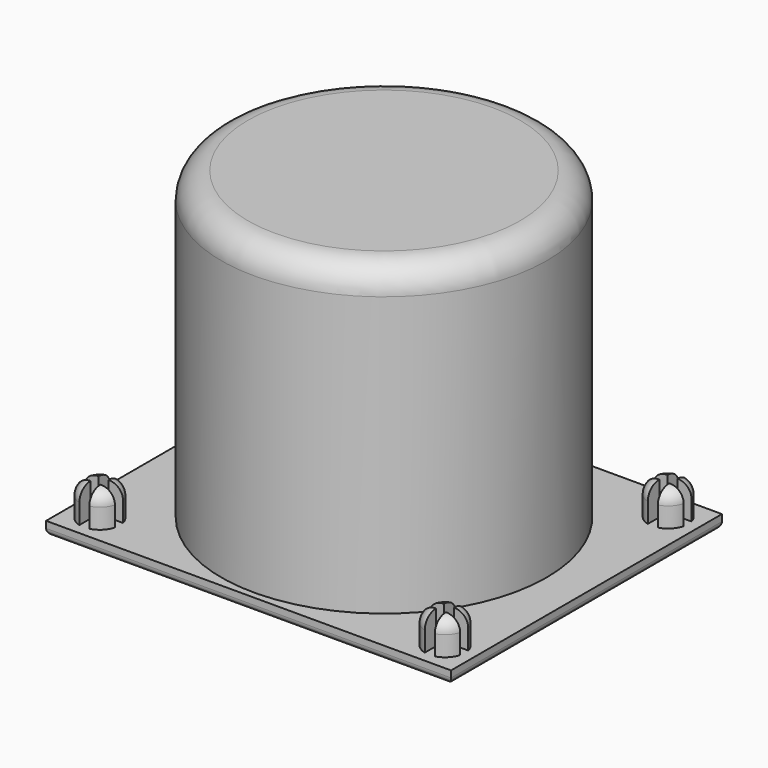
from build123d import *

# Parameters (mm, degrees)
SKETCH001_W                = 61
SKETCH001_H                = 51
PAD_DEPTH                  = 2
SKETCH002_R                = 3
PAD001_DEPTH               = 5
SKETCH002_MIRRORED_2_R     = 3
PAD001_MIRRORED_2_DEPTH    = 5
FILLET_R                   = 2
FILLET001_R                = 1
POCKET_DEPTH               = 5
POCKET_MIRRORED002_2_DEPTH = 5
SKETCH092_R                = 24.5
PAD041_DEPTH               = 48
SKETCH093_R                = 23
POCKET028_DEPTH            = 46
FILLET041_R                = 4


with BuildPart() as part:
    # Sketch001 → Pad (new body)
    with BuildSketch(Plane.XY):
        Rectangle(SKETCH001_W, SKETCH001_H)
    extrude(amount=PAD_DEPTH)

    # Sketch002 (on DatumPlane) → Pad001 (join)
    with BuildSketch(Plane.XY.offset(2)):
        with Locations((-26, 21)):
            Circle(SKETCH002_R)
    pad001 = extrude(amount=PAD001_DEPTH)

    # Sketch002 Mirrored 2 → Pad001 Mirrored 2 (add)
    with BuildSketch(Plane(origin=(0, 0, 2), x_dir=(-1, 0, 0), z_dir=(0, 0, -1))):
        with Locations((-26, 21)):
            Circle(SKETCH002_MIRRORED_2_R)
    pad001_mirrored_2 = extrude(amount=-PAD001_MIRRORED_2_DEPTH)

    # Mirrored001: Pad001, Pad001 Mirrored 2 across Sketch002 H_Axis
    add(pad001.mirror(Plane(origin=(0, 0, 2), x_dir=(0, 0, 1), z_dir=(0, 1, 0))))
    add(pad001_mirrored_2.mirror(Plane(origin=(0, 0, 2), x_dir=(0, 0, 1), z_dir=(0, 1, 0))))

    # Fillet
    fillet_edges = [part.edges().sort_by_distance(p)[0] for p in [
        (29, 21, 7),
        (29, -21, 7),
        (-29, -21, 7),
        (-29, 21, 7),
    ]]
    fillet(fillet_edges, radius=FILLET_R)

    # Fillet001
    fillet001_edges = [part.edges().sort_by_distance(p)[0] for p in [
        (0, 25.5, 0),
        (30.5, 0, 0),
        (0, -25.5, 0),
        (-30.5, 0, 0),
    ]]
    fillet(fillet001_edges, radius=FILLET001_R)

    # Sketch003 (on DatumPlane) → Pocket (cut)
    with BuildSketch(Plane.XY.offset(7)):
        Polygon((-29.265642, -20.28286), (-26.765642, -20.28286), (-26.765642, -17.78286), (-25.265642, -17.78286), (-25.265642, -20.28286), (-22.765642, -20.28286), (-22.765642, -21.78286), (-25.265642, -21.78286), (-25.265642, -24.28286), (-26.765642, -24.28286), (-26.765642, -21.78286), (-29.265642, -21.78286), align=None)
    pocket = extrude(amount=-POCKET_DEPTH, mode=Mode.SUBTRACT)

    # Sketch003 Mirrored002 2 → Pocket Mirrored002 2 (cut)
    with BuildSketch(Plane(origin=(0, 0, 7), x_dir=(-1, 0, 0), z_dir=(0, 0, -1))):
        Polygon((-29.265642, -20.28286), (-26.765642, -20.28286), (-26.765642, -17.78286), (-25.265642, -17.78286), (-25.265642, -20.28286), (-22.765642, -20.28286), (-22.765642, -21.78286), (-25.265642, -21.78286), (-25.265642, -24.28286), (-26.765642, -24.28286), (-26.765642, -21.78286), (-29.265642, -21.78286), align=None)
    pocket_mirrored002_2 = extrude(amount=POCKET_MIRRORED002_2_DEPTH, mode=Mode.SUBTRACT)

    # Mirrored003: Pocket, Pocket Mirrored002 2 across Sketch003 H_Axis
    add(pocket.mirror(Plane(origin=(0, 0, 7), x_dir=(0, 0, 1), z_dir=(0, 1, 0))), mode=Mode.SUBTRACT)
    add(pocket_mirrored002_2.mirror(Plane(origin=(0, 0, 7), x_dir=(0, 0, 1), z_dir=(0, 1, 0))), mode=Mode.SUBTRACT)


with BuildPart() as part_1:
    # Body placement: moved
    add(part.part.moved(Location((0, -65, 0))))

    # Sketch092 (on DatumPlane) → Pad041 (new body)
    with BuildSketch(Plane(origin=(0, -65, 0), x_dir=(1, 0, 0), z_dir=(0, 0, -1))):
        Circle(SKETCH092_R)
    extrude(amount=-PAD041_DEPTH)

    # Sketch093 (on DatumPlane) → Pocket028 (cut)
    with BuildSketch(Plane(origin=(0, -65, 0), x_dir=(1, 0, 0), z_dir=(0, 0, -1))):
        Circle(SKETCH093_R)
    extrude(amount=-POCKET028_DEPTH, mode=Mode.SUBTRACT)

    # Fillet041
    fillet041_edges = [part_1.edges().sort_by_distance(p)[0] for p in [
        (-23, -65, 46),
        (-24.5, -65, 48),
    ]]
    fillet(fillet041_edges, radius=FILLET041_R)


with BuildPart() as part_2:
    # Body039 placement: moved
    add(part_1.part.moved(Location((223, -58, 0))))


solid = part_2.part
